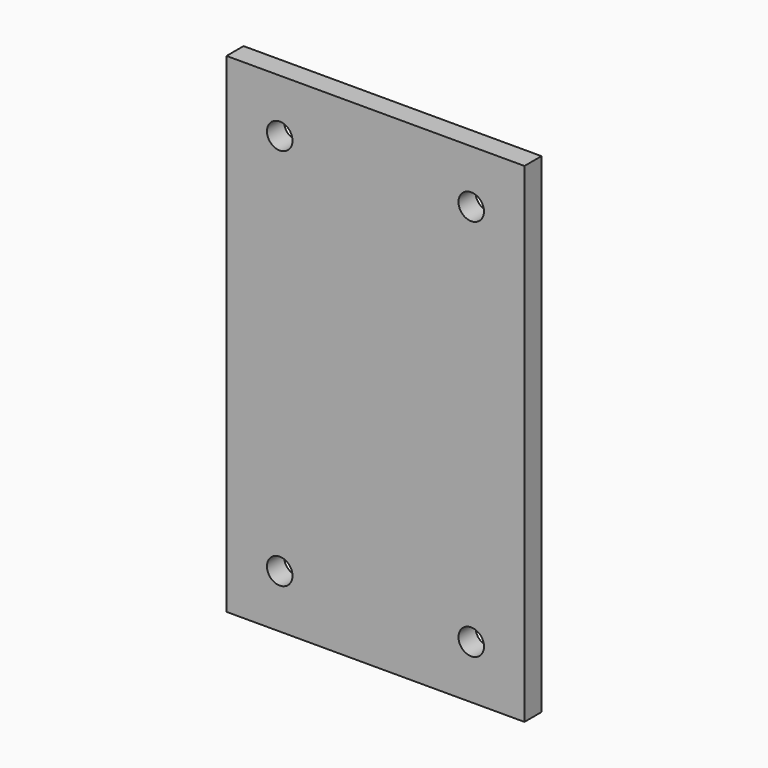
from build123d import *

# Parameters (mm, degrees)
F0_W     = 280
F0_H     = 460
F0_R     = 12
F1_DEPTH = 10


with BuildPart() as f1:
    # F0 (on Front) → F1 (new body, symmetric)
    with BuildSketch(Plane.XZ):
        Rectangle(F0_W, F0_H)
        with Locations((-90, -180)):
            Circle(F0_R, mode=Mode.SUBTRACT)
        with Locations((90, -180)):
            Circle(F0_R, mode=Mode.SUBTRACT)
        with Locations((-90, 180)):
            Circle(F0_R, mode=Mode.SUBTRACT)
        with Locations((90, 180)):
            Circle(F0_R, mode=Mode.SUBTRACT)
    extrude(amount=F1_DEPTH, both=True)


solid = f1.part
